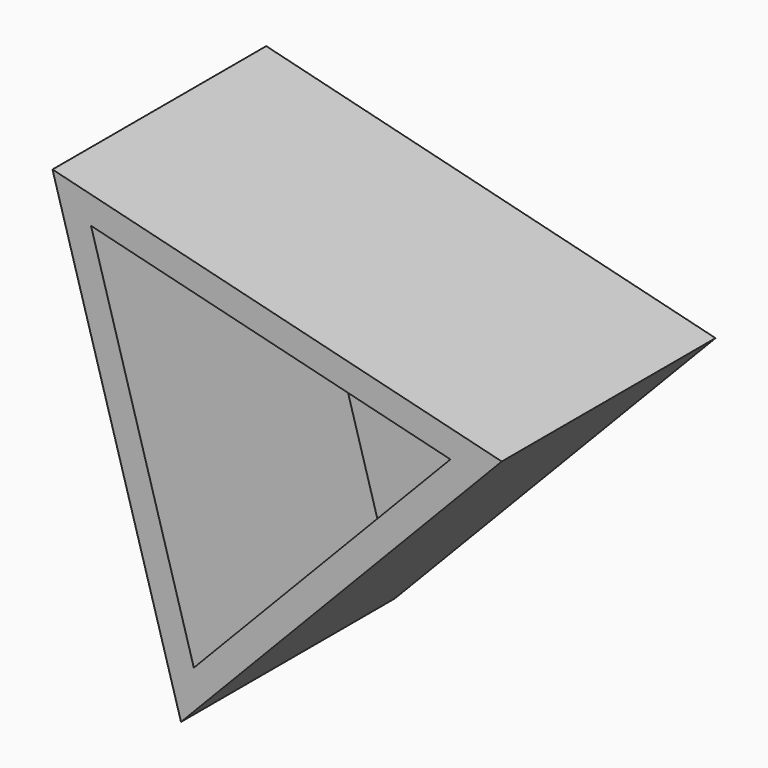
from build123d import *

# Parameters (mm, degrees)
F1_DEPTH = 20
F2_T     = -2


with BuildPart() as f1:
    # F0 (on Front) → F1 (new body)
    with BuildSketch(Plane.XZ):
        Polygon((-4.796665, -19.416282), (19.213326, 5.554107), (-14.416661, 13.862175), align=None)
    extrude(amount=F1_DEPTH)

    # F2
    f2_openings = [f1.faces().sort_by_distance(p)[0] for p in [
        (0, -20, 0),
    ]]
    offset(amount=F2_T, openings=f2_openings)


solid = f1.part
